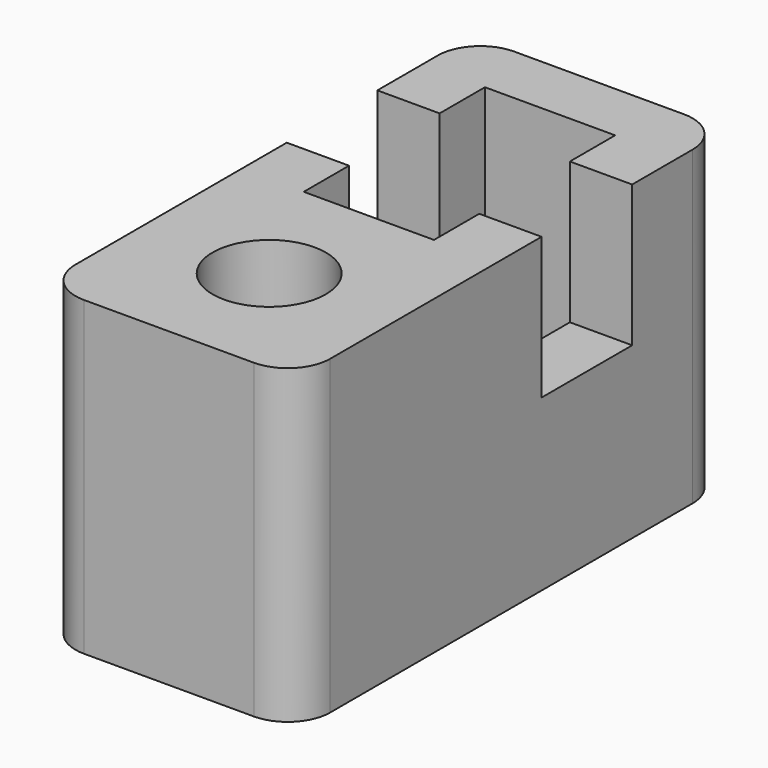
from build123d import *

# Parameters (mm, degrees)
F0_W     = 9
F0_H     = 19
F1_DEPTH = 11
F3_R     = 2
F4_DEPTH = 11
F6_W     = 4.6
F6_H     = 3.6
F6_H_2   = 2.2
F7_DEPTH = 8.9
F8_W     = 9.0002920479
F8_H     = 4
F9_DEPTH = 5
F10_R    = 1.5


with BuildPart() as f1:
    # F0 (on Top) → F1 (new body)
    with BuildSketch(Plane.XY):
        Rectangle(F0_W, F0_H)
    extrude(amount=F1_DEPTH)

    # F3 (on offset) → F4 (cut)
    with BuildSketch(Plane(origin=(0, 0, 0), x_dir=(1, 0, 0), z_dir=(0, 0, -1))):
        with Locations((0, 5.0686830655)):
            Circle(F3_R)
    extrude(amount=-F4_DEPTH, mode=Mode.SUBTRACT)

    # F6 (on offset) → F7 (cut)
    with BuildSketch(Plane.XY.offset(11)):
        with Locations((0, 3.3313169345)):
            Rectangle(F6_W, F6_H)
        with Locations((0, 6.2313169345)):
            Rectangle(F6_W, F6_H_2)
        with Locations((0, 0.4313169345)):
            Rectangle(F6_W, F6_H_2)
    extrude(amount=-F7_DEPTH, mode=Mode.SUBTRACT)

    # F8 (on offset) → F9 (cut)
    with BuildSketch(Plane.XY.offset(11)):
        with Locations((0, 3.3313169345)):
            Rectangle(F8_W, F8_H)
    extrude(amount=-F9_DEPTH, mode=Mode.SUBTRACT)

    # F10
    f10_edges = [f1.edges().sort_by_distance(p)[0] for p in [
        (4.5, 9.5, 5.5),
        (-4.5, 9.5, 5.5),
        (4.5, -9.5, 5.5),
        (-4.5, -9.5, 5.5),
    ]]
    fillet(f10_edges, radius=F10_R)


solid = f1.part
